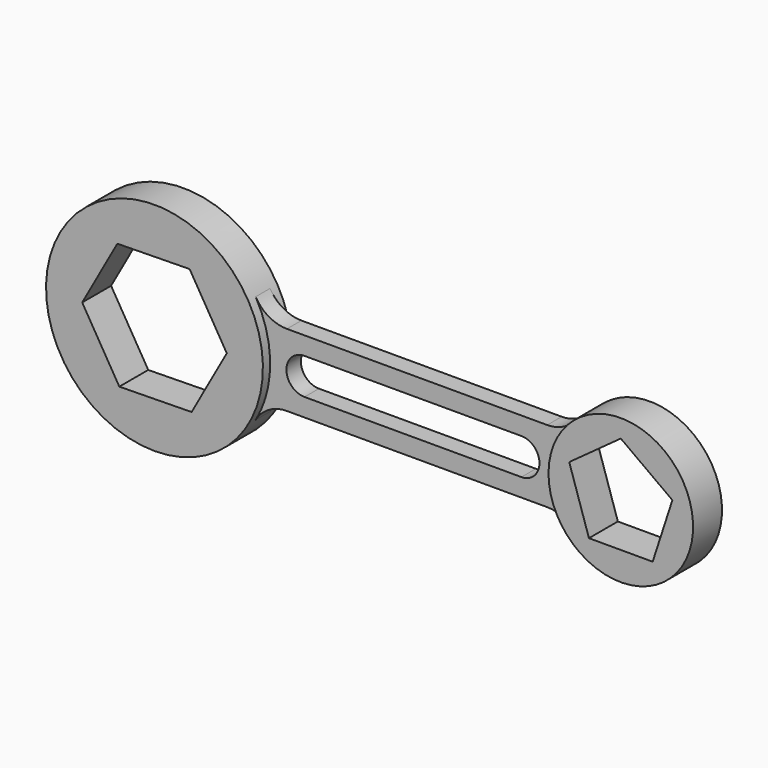
from build123d import *

# Parameters (mm, degrees)
F1_DEPTH = 127
F2_DEPTH = 63.5


with BuildPart() as f1:
    # F0 (on Front) → F1 (new body, symmetric)
    with BuildSketch(Plane.XZ):
        with BuildLine():
            ThreePointArc((659.9113576837, -381), (736.0354796323, -197.2201123681), (762, 0))
            ThreePointArc((762, 0), (736.0354796323, 197.2201123681), (659.9113576837, 381))
            ThreePointArc((659.9113576837, 381), (-762, 0), (659.9113576837, -381))
        make_face()
        Polygon((-507.9358889001, -8.0704874241), (-260.9571915803, 435.8501395693), (246.9786973198, 443.9206269934), (507.9358889001, 8.0704874241), (260.9571915803, -435.8501395693), (-246.9786973198, -443.9206269934), align=None, mode=Mode.SUBTRACT)
    extrude(amount=F1_DEPTH, both=True)


with BuildPart() as f1b:
    # F0 (on Front) → F1, piece 2 (new body, symmetric)
    with BuildSketch(Plane.XZ):
        with BuildLine():
            ThreePointArc((3784.6, 0), (3457.8656216047, 474.5595583531), (2897.95915581, 338.6666666667))
            ThreePointArc((2897.95915581, 338.6666666667), (2768.6, 0), (2897.95915581, -338.6666666667))
            ThreePointArc((2897.95915581, -338.6666666667), (3457.8656216047, -474.5595583531), (3784.6, 0))
        make_face()
        Polygon((2914.2474672915, 117.7354748569), (3276.6, 381), (3638.9525327085, 117.7354748569), (3500.5461811234, -308.2354748569), (3052.6538188766, -308.2354748569), align=None, mode=Mode.SUBTRACT)
    extrude(amount=F1_DEPTH, both=True)


with BuildPart() as f2:
    # F0 (on Front) → F2 (new body, symmetric)
    with BuildSketch(Plane.XZ):
        with BuildLine():
            ThreePointArc((659.9113576837, 381), (736.0354796323, 197.2201123681), (762, 0))
            ThreePointArc((762, 0), (736.0354796323, -197.2201123681), (659.9113576837, -381))
            ThreePointArc((659.9113576837, -381), (752.881810245, -288.0295474388), (879.881810245, -254))
            Line((879.881810245, -254), (1765.3, -254))
            Line((1765.3, -254), (2708.6387337151, -254))
            ThreePointArc((2708.6387337151, -254), (2812.3337994929, -276.1307839895), (2897.95915581, -338.6666666667))
            ThreePointArc((2897.95915581, -338.6666666667), (2768.6, 0), (2897.95915581, 338.6666666667))
            ThreePointArc((2897.95915581, 338.6666666667), (2812.3337994929, 276.1307839895), (2708.6387337151, 254))
            Line((2708.6387337151, 254), (1765.3, 254))
            Line((1765.3, 254), (879.881810245, 254))
            ThreePointArc((879.881810245, 254), (752.881810245, 288.0295474388), (659.9113576837, 381))
        make_face()
        with BuildLine():
            Line((1003.3, 127), (1765.3, 127))
            Line((1765.3, 127), (2527.3, 127))
            ThreePointArc((2527.3, 127), (2654.3, 0), (2527.3, -127))
            Line((2527.3, -127), (1003.3, -127))
            ThreePointArc((1003.3, -127), (876.3, 0), (1003.3, 127))
        make_face(mode=Mode.SUBTRACT)
    extrude(amount=F2_DEPTH, both=True)


solid = Compound([f1.part, f1b.part, f2.part])
